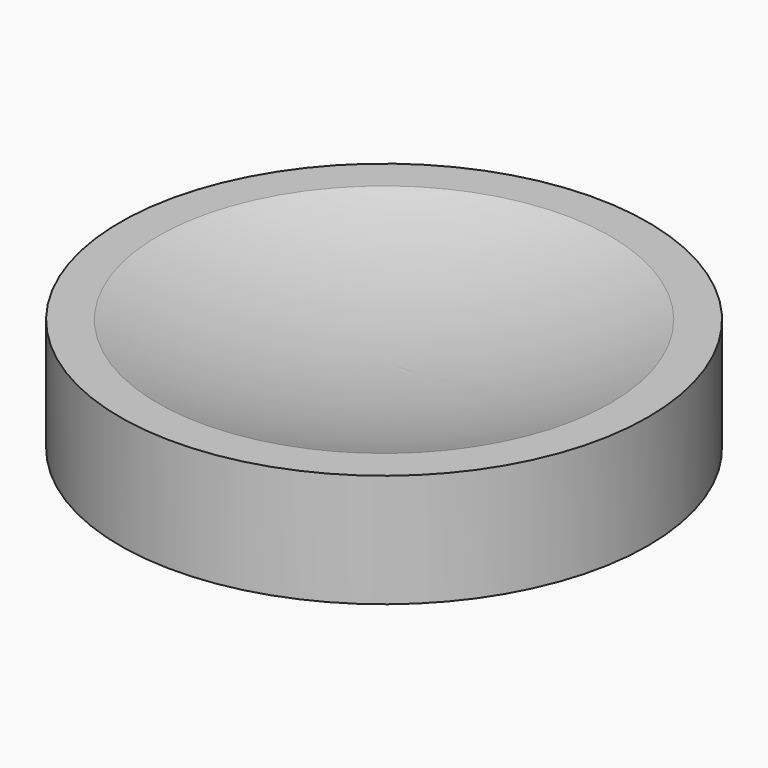
from build123d import *

# Parameters (mm, degrees)
F0_W = 6.35
F0_H = 19.05


with BuildPart() as f1:
    # F0 (on Front) → F1 (revolve)
    with BuildSketch(Plane.XZ):
        with BuildLine():
            ThreePointArc((38.1, 6.35), (19.312771, 1.598374), (0, 0))
            Line((0, 0), (0, -6.35))
            ThreePointArc((0, -6.35), (19.312771, -7.948374), (38.1, -12.7))
            Line((38.1, -12.7), (38.1, 6.35))
        make_face()
        with Locations((41.275, -3.175)):
            Rectangle(F0_W, F0_H)
    revolve(axis=Axis((0, 0, -3.175), (0, 0, -1)))


solid = f1.part
